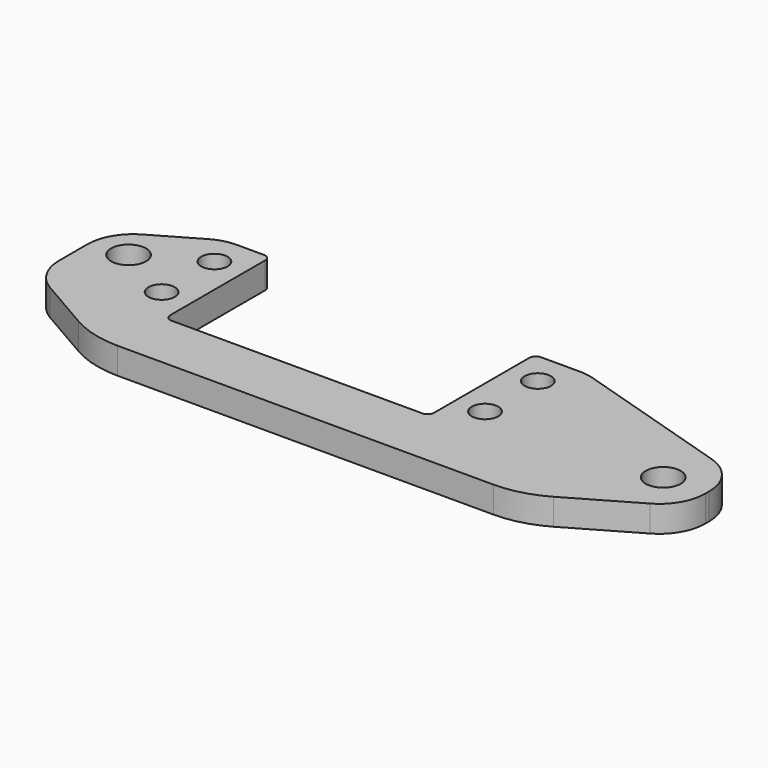
from build123d import *

# Parameters (mm, degrees)
SKETCH005_R   = 2
SKETCH005_R_2 = 2.65
PAD_DEPTH     = 4
FILLET_R      = 15
FILLET001_R   = 7
FILLET002_R   = 7
FILLET003_R   = 1


with BuildPart() as part:
    # Sketch005 → Pad (new body)
    with BuildSketch(Plane.XY.offset(-3)):
        Polygon((-38, 10), (-31, 10), (-31, -10), (9, -10), (9, 10), (17, 10), (47, 0.7), (47, -9.185045), (30, -19), (-35, -19), (-50, -10.339746), (-50, 3.07), align=None)
        with Locations((-35.5, 5)):
            Circle(SKETCH005_R, mode=Mode.SUBTRACT)
        with Locations((-35.5, -5)):
            Circle(SKETCH005_R, mode=Mode.SUBTRACT)
        with Locations((13.5, 5)):
            Circle(SKETCH005_R, mode=Mode.SUBTRACT)
        with Locations((13.5, -5)):
            Circle(SKETCH005_R, mode=Mode.SUBTRACT)
        with Locations((-44.5, 0)):
            Circle(SKETCH005_R_2, mode=Mode.SUBTRACT)
        with Locations((40.5, -5)):
            Circle(SKETCH005_R_2, mode=Mode.SUBTRACT)
    extrude(amount=PAD_DEPTH)

    # Fillet
    fillet_edges = [part.edges().sort_by_distance(p)[0] for p in [
        (30, -19, -1),
        (-35, -19, -1),
    ]]
    fillet(fillet_edges, radius=FILLET_R)

    # Fillet001
    fillet001_edges = [part.edges().sort_by_distance(p)[0] for p in [
        (-50, -10.339746, -1),
        (47, -9.185045, -1),
    ]]
    fillet(fillet001_edges, radius=FILLET001_R)

    # Fillet002
    fillet002_edges = [part.edges().sort_by_distance(p)[0] for p in [
        (-50, 3.07, -1),
        (-38, 10, -1),
        (17, 10, -1),
        (47, 0.7, -1),
    ]]
    fillet(fillet002_edges, radius=FILLET002_R)

    # Fillet003
    fillet003_edges = [part.edges().sort_by_distance(p)[0] for p in [
        (-31, 10, -1),
        (9, 10, -1),
        (9, -10, -1),
        (-31, -10, -1),
    ]]
    fillet(fillet003_edges, radius=FILLET003_R)


solid = part.part
